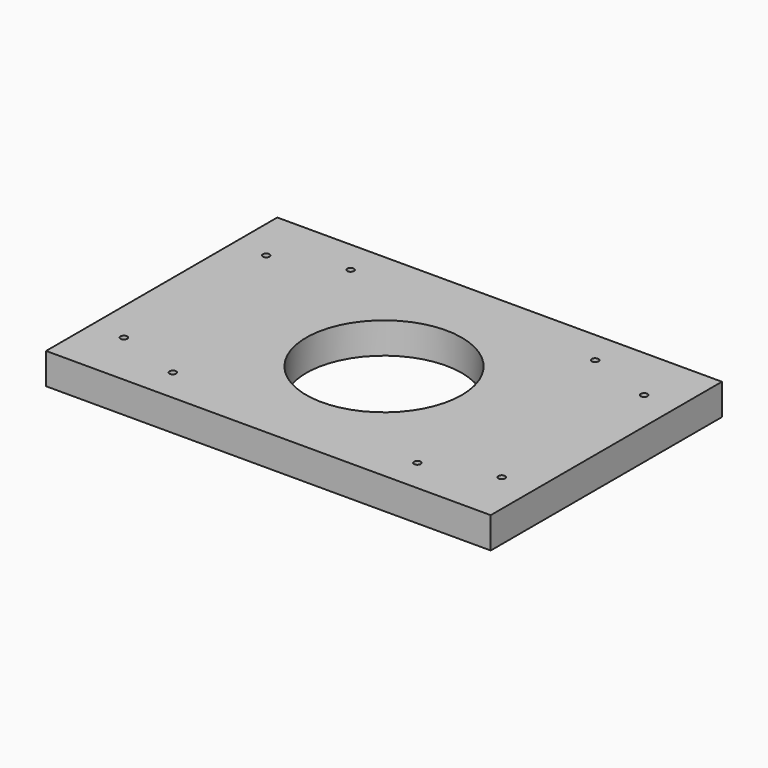
from build123d import *

# Parameters (mm, degrees)
SKETCH_W   = 200
SKETCH_H   = 130
SKETCH_R   = 35
SKETCH_R_2 = 1.5
PAD_DEPTH  = 14


with BuildPart() as part:
    # Sketch → Pad (new body)
    with BuildSketch(Plane.XY):
        with Locations((100, 65)):
            Rectangle(SKETCH_W, SKETCH_H)
        with Locations((100, 65)):
            Circle(SKETCH_R, mode=Mode.SUBTRACT)
        with Locations((45, 115)):
            Circle(SKETCH_R_2, mode=Mode.SUBTRACT)
        with Locations((45, 15)):
            Circle(SKETCH_R_2, mode=Mode.SUBTRACT)
        with Locations((155, 115)):
            Circle(SKETCH_R_2, mode=Mode.SUBTRACT)
        with Locations((155, 15)):
            Circle(SKETCH_R_2, mode=Mode.SUBTRACT)
        with Locations((15, 105)):
            Circle(SKETCH_R_2, mode=Mode.SUBTRACT)
        with Locations((15, 25)):
            Circle(SKETCH_R_2, mode=Mode.SUBTRACT)
        with Locations((185, 105)):
            Circle(SKETCH_R_2, mode=Mode.SUBTRACT)
        with Locations((185, 25)):
            Circle(SKETCH_R_2, mode=Mode.SUBTRACT)
    extrude(amount=PAD_DEPTH)


solid = part.part
